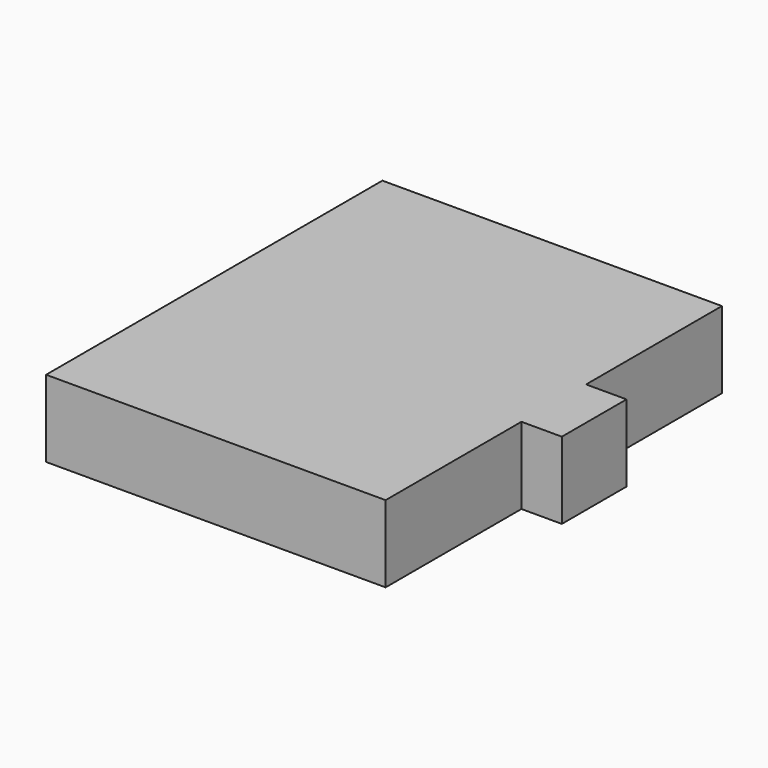
from build123d import *

# Parameters (mm, degrees)
BOX007_W     = 42
BOX007_H     = 52
BOX007_DEPTH = 9.5
BOX008_W     = 5
BOX008_H     = 10
BOX008_DEPTH = 9.5


with BuildPart() as cube006:
    # Box007 → Box007 (new body)
    with BuildSketch(Plane.XY):
        with Locations((21, 26)):
            Rectangle(BOX007_W, BOX007_H)
    extrude(amount=BOX007_DEPTH)


with BuildPart() as usb_fusion:
    # Box008 → Box008 (new body)
    with BuildSketch(Plane(origin=(42, 21, 0), x_dir=(1, 0, 0), z_dir=(0, 0, 1))):
        with Locations((2.5, 5)):
            Rectangle(BOX008_W, BOX008_H)
    extrude(amount=BOX008_DEPTH)

    # Fusion001: union Cube006
    add(cube006.part)


solid = usb_fusion.part
